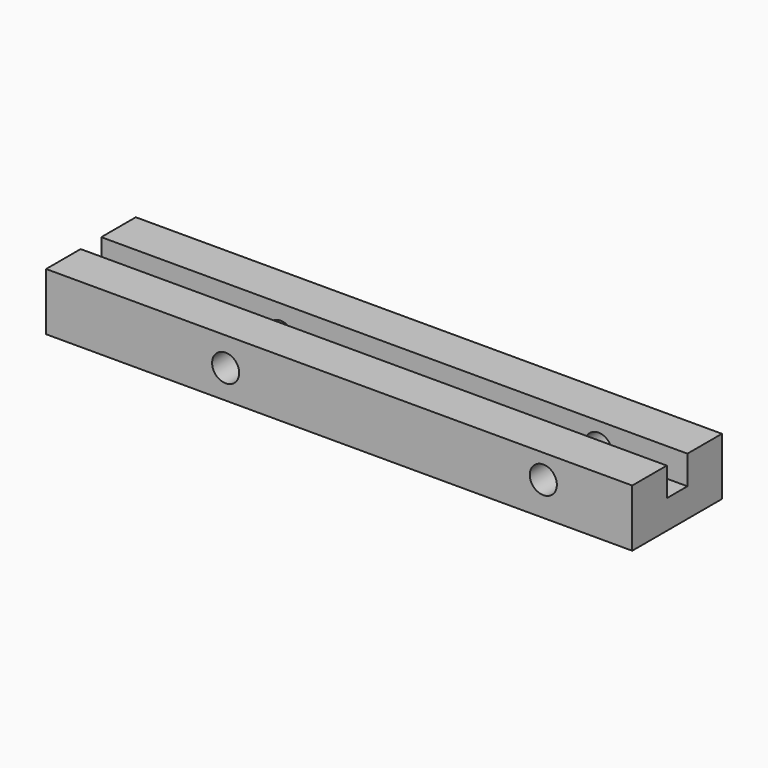
from build123d import *

# Parameters (mm, degrees)
F0_W     = 79.679102
F0_H     = 7.809082
F1_DEPTH = 15.24
F2_W     = 3.50939
F2_H     = 3.868172
F3_DEPTH = 63.5
F4_R     = 1.8415
F5_DEPTH = 32.7406


with BuildPart() as f1:
    # F0 (on Front) → F1 (new body)
    with BuildSketch(Plane.XZ):
        Rectangle(F0_W, F0_H)
    extrude(amount=F1_DEPTH)

    # F2 (on Right) → F3 (cut, symmetric)
    with BuildSketch(Plane.YZ):
        with Locations((-7.615543, 5.802258)):
            Rectangle(F2_W, F2_H)
        with Locations((-7.615543, 1.934086)):
            Rectangle(F2_W, F2_H)
    extrude(amount=F3_DEPTH, both=True, mode=Mode.SUBTRACT)

    # F4 (on face) → F5 (cut)
    with BuildSketch(Plane(origin=(0, 0, 0), x_dir=(-1, 0, 0), z_dir=(0, 1, 0))):
        with Locations((-27.754245, 0.657367)):
            Circle(F4_R)
        with Locations((15.429531, 0)):
            Circle(F4_R)
    extrude(amount=-F5_DEPTH, mode=Mode.SUBTRACT)


solid = f1.part
